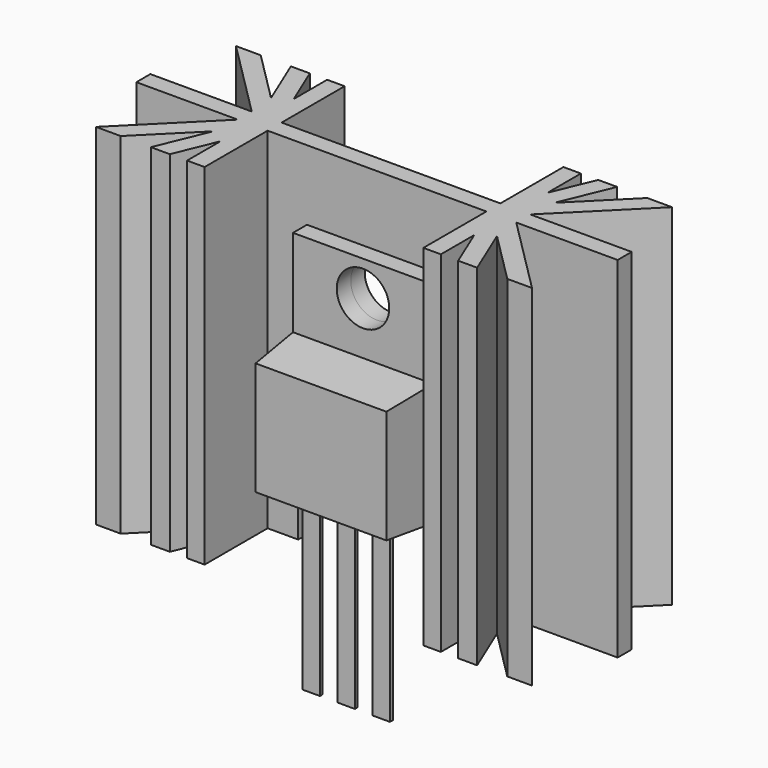
from build123d import *

# Parameters (mm, degrees)
F1_DEPTH       = 25.4
F3_W           = 11.43
F3_H           = 12.7
F4_DEPTH       = 6.986
F5_W           = 10.16
F5_H           = 15.24
F6_DEPTH       = 1.27
F7_W           = 10.16
F7_H           = 8.89
F8_DEPTH       = 3.81
F8_TAPER       = 5
F10_R          = 1.905
F11_DEPTH      = 8.256
F12_W          = 1.27
F12_H          = 0.254
F13_DEPTH      = 12.7
F13_DEPTH_BACK = 0.1333328232


with BuildPart() as f1:
    # F0 (on Top) → F1 (new body)
    with BuildSketch(Plane.XY):
        Polygon((7.9375, -0.635), (7.9375, -6.35), (9.2075, -6.35), (9.2075, -3.3186699308), (10.4631180267, -6.35), (11.8377561211, -6.35), (10.2915128061, -2.6170384182), (14.0244743879, -6.35), (15.8205256121, -6.35), (10.1055256121, -0.635), (17.4625, -0.635), (17.4625, 0.635), (10.1055256121, 0.635), (15.8205256121, 6.35), (14.0244743879, 6.35), (10.2915128061, 2.6170384182), (11.8377561211, 6.35), (10.4631180267, 6.35), (9.2075, 3.3186699308), (9.2075, 6.35), (7.9375, 6.35), (7.9375, 0.635), (0, 0.635), (0, -0.635), align=None)
    extrude(amount=F1_DEPTH)

    # F2: F1 across plane


with BuildPart() as f1_1:
    add(f1.part)
    add(f1.part.mirror(Plane.YZ))

    # F3 (on face) → F4 (cut, through all)
    with BuildSketch(Plane.XZ.offset(0.635)):
        with Locations((0, 6.35)):
            Rectangle(F3_W, F3_H)
    extrude(amount=-F4_DEPTH, mode=Mode.SUBTRACT)


with BuildPart() as f6:
    # F5 (on face) → F6 (new body)
    with BuildSketch(Plane.XZ.offset(0.635)):
        with Locations((0, 12.7)):
            Rectangle(F5_W, F5_H)
    extrude(amount=F6_DEPTH)

    # F7 (on face) → F8 (join)
    with BuildSketch(Plane.XZ.offset(1.905)):
        with Locations((0, 9.525)):
            Rectangle(F7_W, F7_H)
    extrude(amount=F8_DEPTH, taper=F8_TAPER)


with BuildPart() as f11_tool:
    # F10 (on face) → F11 (new body, through all)
    with BuildSketch(Plane.XZ.offset(1.905)):
        with Locations((0, 17.78)):
            Circle(F10_R)
    extrude(amount=-F11_DEPTH)


with BuildPart() as f1_2:
    add(f1_1.part)

    # F11: cut by f11_tool
    add(f11_tool.part, mode=Mode.SUBTRACT)


with BuildPart() as f6_1:
    add(f6.part)

    # F11: cut by f11_tool
    add(f11_tool.part, mode=Mode.SUBTRACT)

    # F12 (on face) → F13 (join, two sides)
    with BuildSketch(Plane(origin=(0, 0, 5.08), x_dir=(1, 0, 0), z_dir=(0, 0, -1))) as f13_sk:
        with Locations((0, 3.302)):
            Rectangle(F12_W, F12_H)
        with Locations((-2.54, 3.302)):
            Rectangle(F12_W, F12_H)
        with Locations((2.54, 3.302)):
            Rectangle(F12_W, F12_H)
    extrude(amount=F13_DEPTH)
    extrude(f13_sk.sketch, amount=-F13_DEPTH_BACK)


solid = Compound([f1_2.part, f6_1.part])
